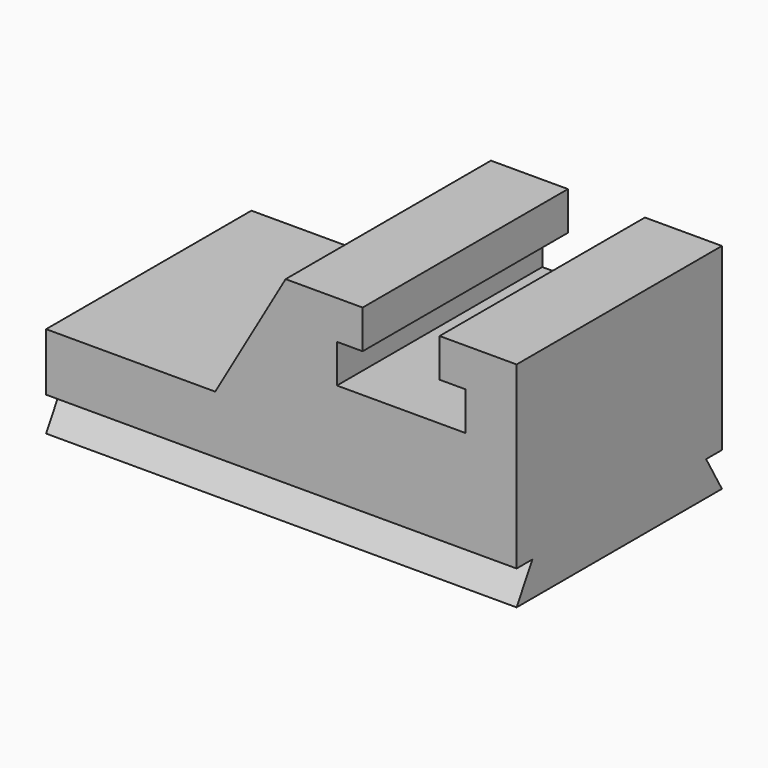
from build123d import *

# Parameters (mm, degrees)
F0_W     = 457.2
F0_H     = 1524
F0_W_2   = 1422.4
F1_DEPTH = 1270
F3_DEPTH = 1524.001
F5_DEPTH = 2794.001
F6_DEPTH = 2794.001
F8_DEPTH = 1524.001


with BuildPart() as f1:
    # F0 (on Top) → F1 (new body)
    with BuildSketch(Plane.XY):
        with Locations((2449.204493, -734.793674)):
            Rectangle(F0_W, F0_H)
        with Locations((1992.004493, -734.793674)):
            Rectangle(F0_W, F0_H)
        with Locations((1534.804493, -734.793674)):
            Rectangle(F0_W, F0_H)
        with Locations((595.004493, -734.793674)):
            Rectangle(F0_W_2, F0_H)
    extrude(amount=-F1_DEPTH)

    # F2 (on face) → F3 (cut, through all)
    with BuildSketch(Plane.XZ.offset(1496.793674)):
        Polygon((2220.604493, -228.6), (2220.604493, 0), (1763.404493, 0), (1763.404493, -228.6), (1611.004493, -228.6), (1611.004493, -457.2), (2373.004493, -457.2), (2373.004493, -228.6), align=None)
    extrude(amount=-F3_DEPTH, mode=Mode.SUBTRACT)

    # F4 (on face) → F5 (cut, through all)
    with BuildSketch(Plane(origin=(-116.195507, 0, 0), x_dir=(0, -1, 0), z_dir=(-1, 0, 0))):
        Polygon((-27.206326, -1066.8), (-27.206326, -1270), (90.111249, -1066.8), align=None)
    extrude(amount=-F5_DEPTH, mode=Mode.SUBTRACT)

    # F4 (on face) → F6 (cut, through all)
    with BuildSketch(Plane(origin=(-116.195507, 0, 0), x_dir=(0, -1, 0), z_dir=(-1, 0, 0))):
        Polygon((1379.476099, -1066.8), (1496.793674, -1270), (1496.793674, -1066.8), align=None)
    extrude(amount=-F6_DEPTH, mode=Mode.SUBTRACT)

    # F7 (on face) → F8 (cut, through all)
    with BuildSketch(Plane.XZ.offset(1496.793674)):
        Polygon((888.163439, -724.068344), (1306.204493, 0), (-116.195507, 0), (-116.195507, -724.068344), align=None)
    extrude(amount=-F8_DEPTH, mode=Mode.SUBTRACT)


solid = f1.part
